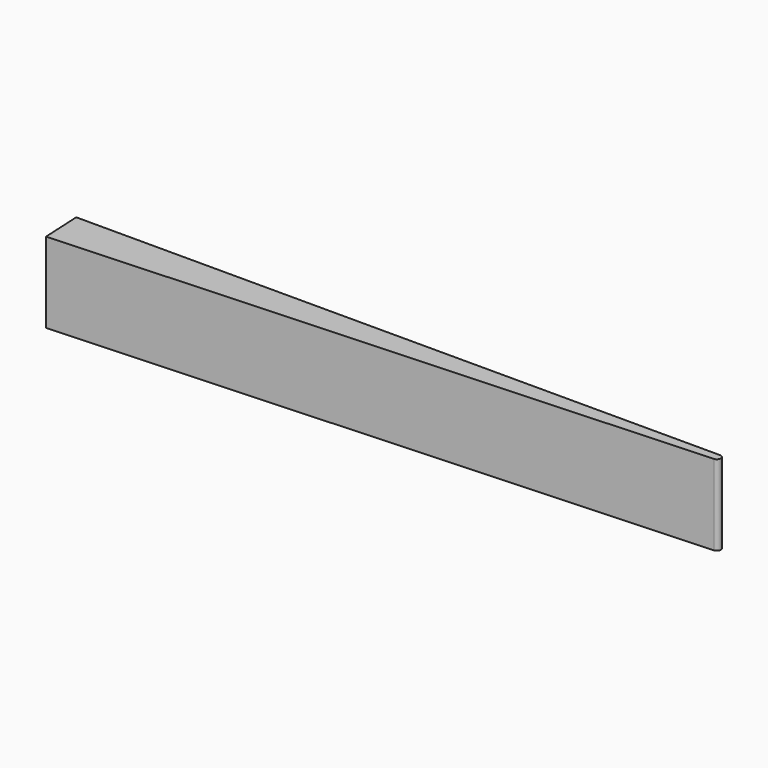
from build123d import *

# Parameters (mm, degrees)
F1_DEPTH = 10
F2_R     = 0.5


with BuildPart() as f1:
    # F0 (on Top) → F1 (new body)
    with BuildSketch(Plane.XY):
        Polygon((52.60116, 0), (-47.39884, 0), (-47.14884, -4.993746), align=None)
    extrude(amount=F1_DEPTH)

    # F2
    f2_edges = [f1.edges().sort_by_distance(p)[0] for p in [
        (52.60116, 0, 5),
    ]]
    fillet(f2_edges, radius=F2_R)


solid = f1.part
